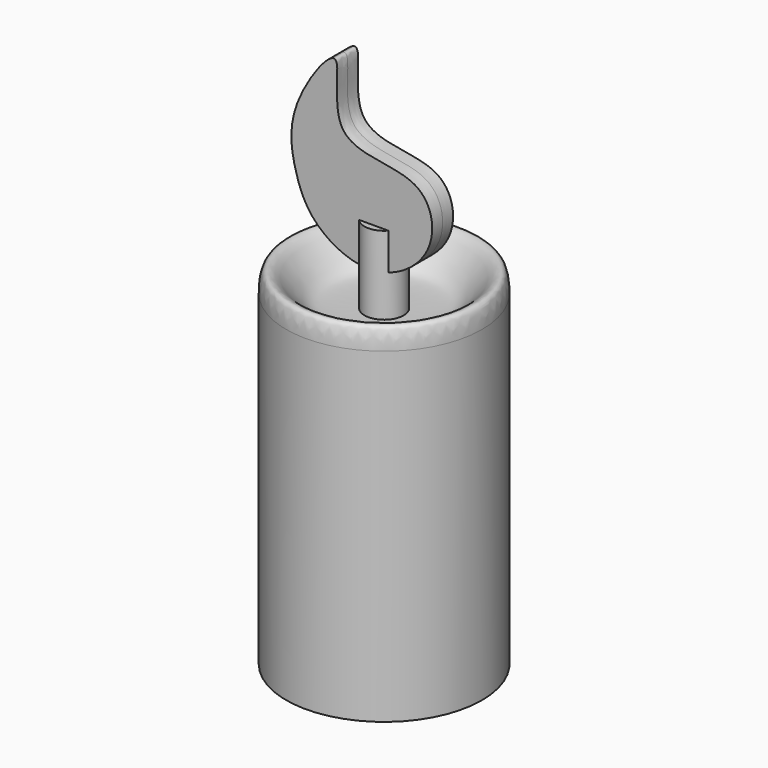
from build123d import *

# Parameters (mm, degrees)
F3_DEPTH = 1
F5_DEPTH = 22


with BuildPart() as f1:
    # F0 (on Front) → F1 (revolve)
    with BuildSketch(Plane.XZ):
        with BuildLine():
            Line((0, 25), (0, 0))
            Line((0, 0), (7.5, 0))
            Line((7.5, 0), (7.5, 25))
            add(Edge.make_bspline(
                [(7.5, 25), (7.5, 27.7293550812), (5.2232004254, 24.8785987129), (4.2837052935, 24.0698828283), (3.4494399973, 24), (1.5, 24)],
                knots=[0, 0, 0, 0, 0.3159507046, 0.6176447617, 1, 1, 1, 1], degree=3))
            Line((1.5, 24), (1.5, 30))
            Line((1.5, 30), (0, 30))
            Line((0, 30), (0, 25))
        make_face()
    revolve(axis=Axis((0, 0, 12.5), (0, 0, 1)))

    # F2 (on Front) → F3 (join, symmetric)
    with BuildSketch(Plane.XZ):
        with BuildLine():
            add(Edge.make_bspline(
                [(0, 26.9477721304), (1.7591886985, 27.0805402808), (5.133113675, 29.3262695999), (4.0989089424, 35.0442071493), (-4.0371644112, 33.8093548315), (-1.7649166522, 42.7749614003), (-6.7165487463, 36.1095453311), (-6.1815955095, 31.9111091088), (-4.7972468562, 28.408081284), (-1.6946518044, 26.8198746593), (0, 26.9477721304)],
                knots=[0, 0, 0, 0, 0.1314530707, 0.2479856097, 0.3890972564, 0.5130554239, 0.63928719, 0.7643858297, 0.8733693642, 1, 1, 1, 1], degree=3))
        make_face()
    extrude(amount=F3_DEPTH, both=True)

    # F4 (on face) → F5 (cut)
    with BuildSketch(Plane(origin=(0, 0, 0), x_dir=(1, 0, 0), z_dir=(0, 0, -1))):
        with BuildLine():
            Line((-1, -5.9160797831), (-1, 5.9160797831))
            ThreePointArc((-1, 5.9160797831), (-6, 0), (-1, -5.9160797831))
        make_face()
        with BuildLine():
            ThreePointArc((1, -5.9160797831), (6, 0), (1, 5.9160797831))
            Line((1, 5.9160797831), (1, -5.9160797831))
        make_face()
    extrude(amount=-F5_DEPTH, mode=Mode.SUBTRACT)


solid = f1.part
